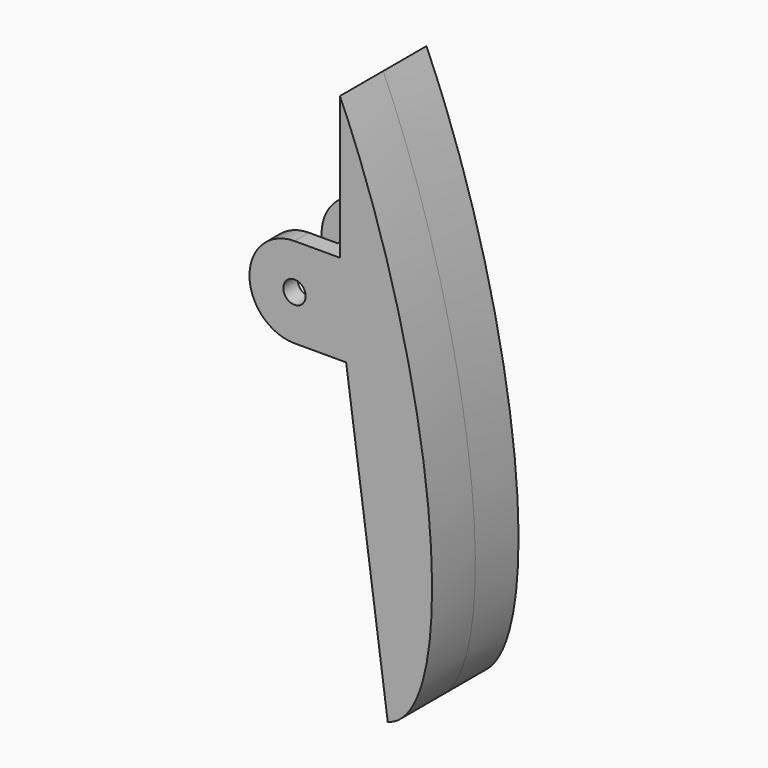
from build123d import *

# Parameters (mm, degrees)
F1_DEPTH = 15
F2_W     = 19.2250516646
F2_H     = 20
F2_W_2   = 8
F3_DEPTH = 109.0935827289
F4_R     = 3.1
F5_DEPTH = 25
F6_DEPTH = 55.0010001


with BuildPart() as f1:
    # F0 (on Front) → F1 (new body, symmetric)
    with BuildSketch(Plane.XZ):
        with BuildLine():
            ThreePointArc((0, -12.5), (8.8388347648, -8.8388347648), (12.5, 0))
            ThreePointArc((12.5, 0), (8.8388347648, 8.8388347648), (0, 12.5))
            ThreePointArc((0, 12.5), (-12.5, 0), (0, -12.5))
        make_face()
        with BuildLine():
            ThreePointArc((0, 12.5), (8.8388347648, 8.8388347648), (12.5, 0))
            ThreePointArc((12.5, 0), (8.8388347648, -8.8388347648), (0, -12.5))
            Line((0, -12.5), (14.3338776639, -12.5))
            Line((14.3338776639, -12.5), (12.6173132409, 0))
            Line((12.6173132409, 0), (12.6173132409, 12.5))
            Line((12.6173132409, 12.5), (0, 12.5))
        make_face()
        with BuildLine():
            Line((12.6173132409, 52.036685962), (12.6173132409, 12.5))
            Line((12.6173132409, 12.5), (12.6173132409, 0))
            Line((12.6173132409, 0), (14.3338776639, -12.5))
            Line((14.3338776639, -12.5), (25.8819045103, -96.5925826289))
            add(Edge.make_bspline(
                [(25.8819045103, -96.5925826289), (72.6372622036, -84.0645222931), (12.6173132409, 52.036685962)],
                knots=[3.1415926536, 3.1415926536, 3.1415926536, 5.2016568498, 5.2016568498, 5.2016568498], degree=2, weights=[1, 0.514791327, 1]))
        make_face()
    extrude(amount=F1_DEPTH, both=True)

    # F2 (on face) → F3 (cut, through all)
    with BuildSketch(Plane.XY.offset(12.5)):
        with Locations((-9.6125258323, 0)):
            Rectangle(F2_W, F2_H)
        with Locations((4, 0)):
            Rectangle(F2_W_2, F2_H)
    extrude(amount=-F3_DEPTH, mode=Mode.SUBTRACT)

    # F4 (on face) → F5 (join)
    with BuildSketch(Plane.XZ.offset(15)):
        Circle(F4_R)
    extrude(amount=F5_DEPTH)

    # F6 (cut, through all): a face of the model
    f6_faces = [f1.faces().sort_by_distance(p)[0] for p in [
        (0, -40, 0),
    ]]
    extrude(f6_faces, amount=-F6_DEPTH, mode=Mode.SUBTRACT)


solid = f1.part
